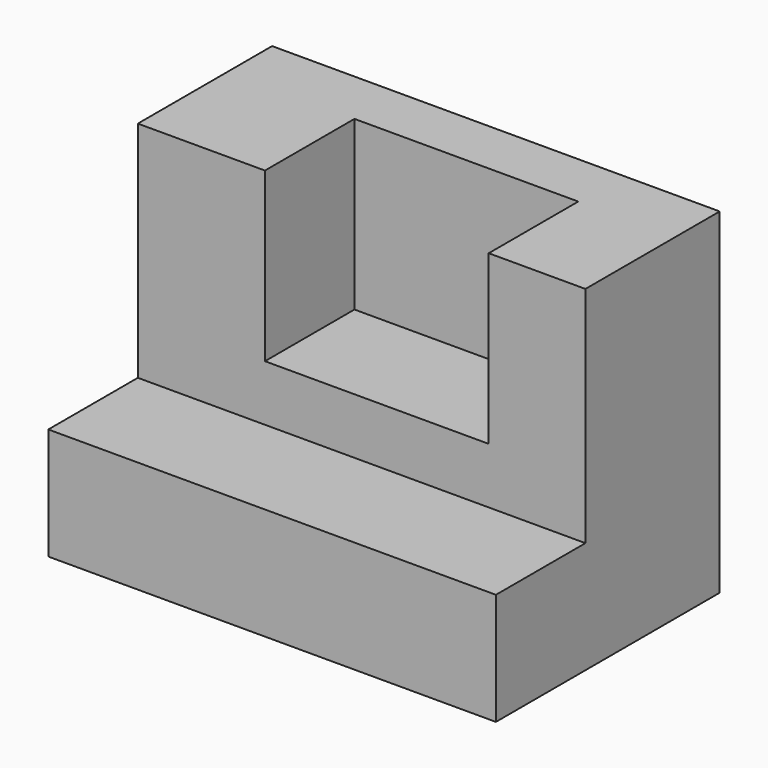
from build123d import *

# Parameters (mm, degrees)
F1_DEPTH = 101.6
F2_W     = 50.8
F2_H     = 38.1
F3_DEPTH = 25.4


with BuildPart() as f1:
    # F0 (on Right) → F1 (new body)
    with BuildSketch(Plane.YZ):
        Polygon((-26.797737, -1.445397), (-26.797737, -26.845397), (36.702263, -26.845397), (36.702263, 49.354603), (-1.397737, 49.354603), (-1.397737, -1.445397), align=None)
    extrude(amount=-F1_DEPTH)

    # F2 (on face) → F3 (cut)
    with BuildSketch(Plane.XZ.offset(1.397737)):
        with Locations((-47.346187, 30.304603)):
            Rectangle(F2_W, F2_H)
    extrude(amount=-F3_DEPTH, mode=Mode.SUBTRACT)


solid = f1.part
